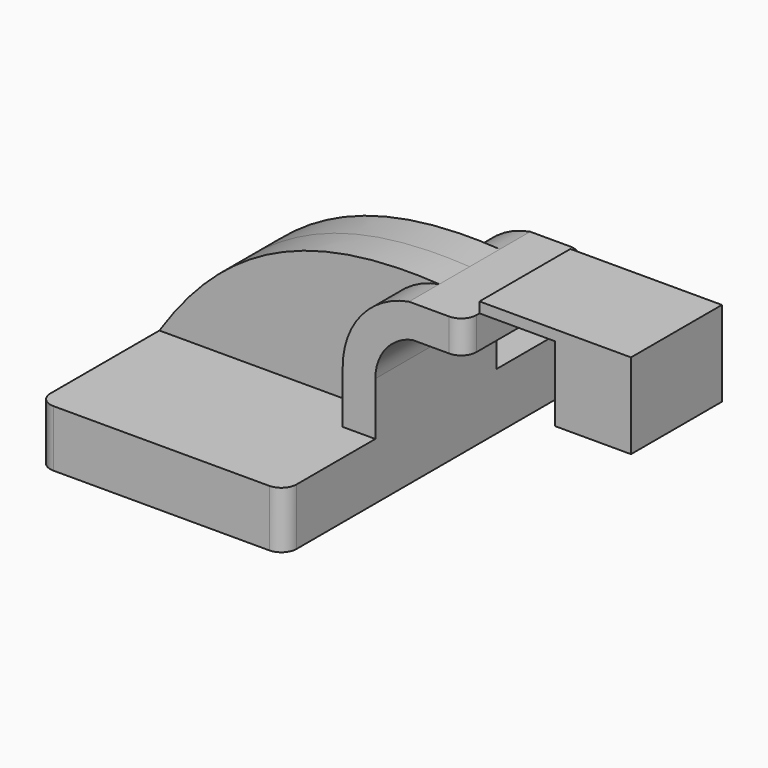
from build123d import *

# Parameters (mm, degrees)
F1_DEPTH = 63.5
F2_DEPTH = 25.4
F3_DEPTH = 12.7
F4_DEPTH = 19.05
F5_R     = 5.08


with BuildPart() as f1:
    # F0 (on Front) → F1 (new body, symmetric)
    with BuildSketch(Plane.XZ):
        Polygon((30.353, 9.525), (-41.275, 9.525), (-41.275, -9.525), (41.275, -9.525), (41.275, 9.525), align=None)
    extrude(amount=F1_DEPTH, both=True)

    # F0 (on Front) → F2 (join, symmetric)
    with BuildSketch(Plane.XZ):
        with BuildLine():
            Line((30.353, 27.3189590971), (30.353, 9.525))
            Line((30.353, 9.525), (41.275, 9.525))
            Line((41.275, 9.525), (41.275, 27.3189590971))
            ThreePointArc((41.275, 27.3189590971), (44.7427219335, 37.2222452174), (53.6309150841, 42.799))
            Line((53.6309150841, 42.799), (71.1193587124, 42.799))
            Line((71.1193587124, 42.799), (71.1193587124, 53.721))
            Line((71.1193587124, 53.721), (52.5661757055, 53.721))
            ThreePointArc((52.5661757055, 53.721), (36.6449768518, 44.5707194331), (30.353, 27.3189590971))
        make_face()
    extrude(amount=F2_DEPTH, both=True)

    # F0 (on Front) → F3 (join, symmetric)
    with BuildSketch(Plane.XZ):
        with BuildLine():
            add(Edge.make_bspline(
                [(-41.275, 9.525), (-20.312147215, 41.3128510118), (7.5740232132, 56.4608946443), (52.5661757055, 53.721)],
                knots=[0, 0, 0, 0, 103.727781591, 103.727781591, 103.727781591, 103.727781591], degree=3))
            Line((-41.275, 9.525), (30.353, 9.525))
            Line((30.353, 9.525), (30.353, 27.3189590971))
            ThreePointArc((30.353, 27.3189590971), (36.6449768518, 44.5707194331), (52.5661757055, 53.721))
        make_face()
    extrude(amount=F3_DEPTH, both=True)

    # F0 (on Front) → F4 (join, symmetric)
    with BuildSketch(Plane.XZ):
        Polygon((71.1193587124, 57.2476304275), (71.1193587124, 53.721), (83.4788307548, 53.721), (85.725, 53.721), (96.5193587124, 53.721), (96.5193587124, 57.2476304275), align=None)
        Polygon((121.9193587124, 57.2476304275), (96.5193587124, 57.2476304275), (96.5193587124, 53.721), (96.5193587124, 42.9601304275), (96.5193587124, 28.6726304275), (121.9193587124, 28.6726304275), align=None)
    extrude(amount=F4_DEPTH, both=True)

    # F5
    f5_edges = [f1.edges().sort_by_distance(p)[0] for p in [
        (-41.275, -63.5, 0),
        (41.275, -63.5, 0),
        (-41.275, 63.5, 0),
        (41.275, 63.5, 0),
        (71.119359, 25.4, 48.26),
        (71.119359, -25.4, 48.26),
    ]]
    fillet(f5_edges, radius=F5_R)


solid = f1.part
